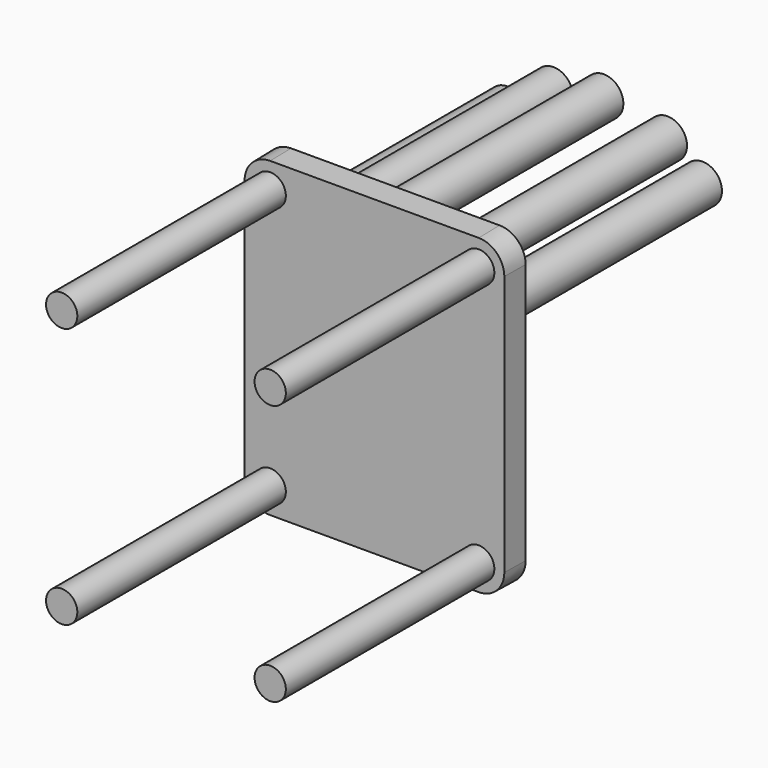
from build123d import *

# Parameters (mm, degrees)
F1_DEPTH = 10
F1_TAPER = 1
F2_R     = 6
F3_DEPTH = 100
F4_R     = 7.5
F5_DEPTH = 100


with BuildPart() as f1:
    # F0 (on Front) → F1 (new body)
    with BuildSketch(Plane.XZ):
        with BuildLine():
            ThreePointArc((50, 50), (47.0710678119, 57.0710678119), (40, 60))
            Line((40, 60), (-40, 60))
            ThreePointArc((-40, 60), (-47.0710678119, 57.0710678119), (-50, 50))
            Line((-50, 50), (-50, -50))
            ThreePointArc((-50, -50), (-47.0710678119, -57.0710678119), (-40, -60))
            Line((-40, -60), (40, -60))
            ThreePointArc((40, -60), (47.0710678119, -57.0710678119), (50, -50))
            Line((50, -50), (50, 50))
        make_face()
    extrude(amount=F1_DEPTH, taper=F1_TAPER)

    # F2 (on face) → F3 (join)
    with BuildSketch(Plane.XZ.offset(10)):
        with Locations((-40, 50)):
            Circle(F2_R)
        with Locations((40, 50)):
            Circle(F2_R)
        with Locations((40, -50)):
            Circle(F2_R)
        with Locations((-40, -50)):
            Circle(F2_R)
    extrude(amount=F3_DEPTH)

    # F4 (on face) → F5 (join)
    with BuildSketch(Plane(origin=(0, 0, 0), x_dir=(-1, 0, 0), z_dir=(0, 1, 0))):
        with Locations((-37.8239102132, 32.7009451879)):
            Circle(F4_R)
        with Locations((-24.4146151623, 43.6340069955)):
            Circle(F4_R)
        with Locations((1.0837e-06, 49.8871542513)):
            Circle(F4_R)
        with Locations((19.318186678, 46.0232570767)):
            Circle(F4_R)
        with Locations((37.0454452932, 33.7496697903)):
            Circle(F4_R)
    extrude(amount=F5_DEPTH)


solid = f1.part
